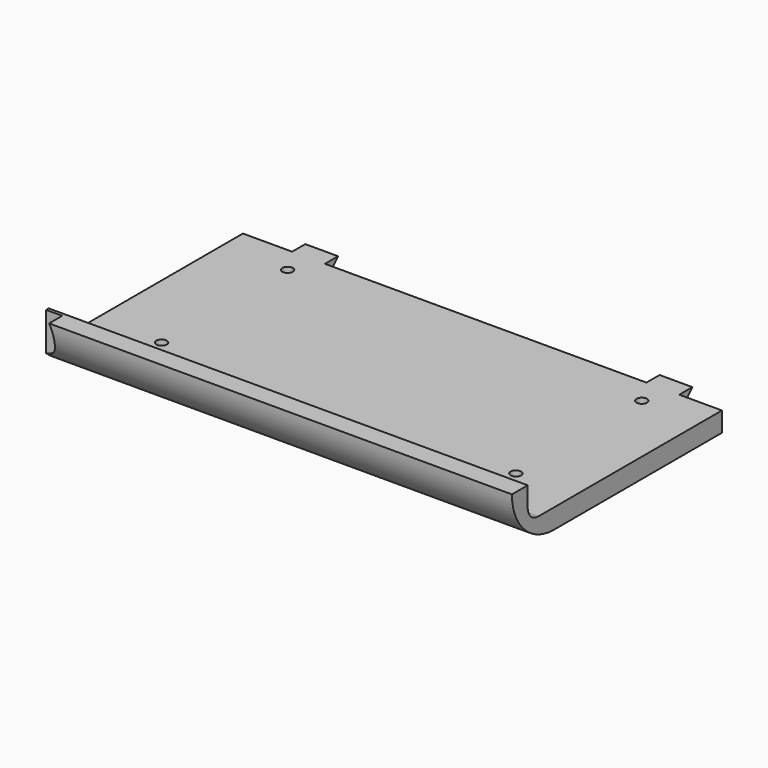
from build123d import *

# Parameters (mm, degrees)
CYLINDER028_R          = 4
CYLINDER028_DEPTH      = 2.5
CYLINDER028_ROLL_ANGLE = 90
BOX023_W               = 5
BOX023_H               = 2.5
BOX023_DEPTH           = 2.5
CHAMFER003_SIZE        = 2.49
BOX021_W               = 5
BOX021_H               = 2.5
BOX021_DEPTH           = 2.5
CHAMFER001_SIZE        = 2.49
CYLINDER014_R          = 0.8
CYLINDER014_DEPTH      = 28
CYLINDER015_R          = 0.8
CYLINDER015_DEPTH      = 28
CYLINDER009_R          = 0.8
CYLINDER009_DEPTH      = 28
CYLINDER008_R          = 0.8
CYLINDER008_DEPTH      = 28
BOX012_W               = 73
BOX012_H               = 37
BOX012_DEPTH           = 3
BOX011_W               = 73
BOX011_H               = 3
BOX011_DEPTH           = 8
FILLET004_R            = 7.99
FILLET005_R            = 2


with BuildPart() as cylinder028:
    # Cylinder028 → Cylinder028 (new body)
    with BuildSketch(Plane.XY):
        Circle(CYLINDER028_R)
    extrude(amount=CYLINDER028_DEPTH)


with BuildPart() as cylinder028_1:
    # Cylinder028 roll: moved
    add(cylinder028.part.rotate(Axis((0, 0, 0), (1, 0, 0)), CYLINDER028_ROLL_ANGLE))


with BuildPart() as cylinder028_2:
    # Cylinder028 placement: moved
    add(cylinder028_1.part.moved(Location((63, 84.5, -17))))


with BuildPart() as chamfer003:
    # Box023 → Box023 (new body)
    with BuildSketch(Plane(origin=(70.5, 113, -22.5), x_dir=(1, 0, 0), z_dir=(0, 0, 1))):
        with Locations((2.5, 1.25)):
            Rectangle(BOX023_W, BOX023_H)
    extrude(amount=BOX023_DEPTH)

    # Chamfer003
    chamfer003_edges = [chamfer003.edges().sort_by_distance(p)[0] for p in [
        (73, 115.5, -22.5),
    ]]
    chamfer(chamfer003_edges, length=CHAMFER003_SIZE)


with BuildPart() as chamfer003_1:
    # Chamfer003 placement: moved
    add(chamfer003.part.moved(Location((55, 9, 0))))


with BuildPart() as fusion016:
    # Box021 → Box021 (new body)
    with BuildSketch(Plane(origin=(70.5, 113, -22.5), x_dir=(1, 0, 0), z_dir=(0, 0, 1))):
        with Locations((2.5, 1.25)):
            Rectangle(BOX021_W, BOX021_H)
    extrude(amount=BOX021_DEPTH)

    # Chamfer001
    chamfer001_edges = [fusion016.edges().sort_by_distance(p)[0] for p in [
        (73, 115.5, -22.5),
    ]]
    chamfer(chamfer001_edges, length=CHAMFER001_SIZE)


with BuildPart() as fusion016_1:
    # Chamfer001 placement: moved
    add(fusion016.part.moved(Location((1, 9, 0))))

    # Fusion016: union Chamfer003
    add(chamfer003_1.part)


with BuildPart() as cylinder014:
    # Cylinder014 → Cylinder014 (new body)
    with BuildSketch(Plane(origin=(74, 118, -26), x_dir=(1, 0, 0), z_dir=(0, 0, 1))):
        Circle(CYLINDER014_R)
    extrude(amount=CYLINDER014_DEPTH)


with BuildPart() as fusion011:
    # Cylinder015 → Cylinder015 (new body)
    with BuildSketch(Plane(origin=(74, 94, -26), x_dir=(1, 0, 0), z_dir=(0, 0, 1))):
        Circle(CYLINDER015_R)
    extrude(amount=CYLINDER015_DEPTH)

    # Fusion011: union Cylinder014
    add(cylinder014.part)


with BuildPart() as fusion011_1:
    # Fusion011 placement: moved
    add(fusion011.part.moved(Location((54, 0, 0))))


with BuildPart() as cylinder009:
    # Cylinder009 → Cylinder009 (new body)
    with BuildSketch(Plane(origin=(74, 118, -26), x_dir=(1, 0, 0), z_dir=(0, 0, 1))):
        Circle(CYLINDER009_R)
    extrude(amount=CYLINDER009_DEPTH)


with BuildPart() as fusion012:
    # Cylinder008 → Cylinder008 (new body)
    with BuildSketch(Plane(origin=(74, 94, -26), x_dir=(1, 0, 0), z_dir=(0, 0, 1))):
        Circle(CYLINDER008_R)
    extrude(amount=CYLINDER008_DEPTH)

    # Fusion010: union Cylinder009
    add(cylinder009.part)

    # Fusion012: union Fusion011
    add(fusion011_1.part)


with BuildPart() as box012:
    # Box012 → Box012 (new body)
    with BuildSketch(Plane(origin=(64, 85, -23), x_dir=(1, 0, 0), z_dir=(0, 0, 1))):
        with Locations((36.5, 18.5)):
            Rectangle(BOX012_W, BOX012_H)
    extrude(amount=BOX012_DEPTH)


with BuildPart() as cut026:
    # Box011 → Box011 (new body)
    with BuildSketch(Plane(origin=(64, 82, -23), x_dir=(1, 0, 0), z_dir=(0, 0, 1))):
        with Locations((36.5, 1.5)):
            Rectangle(BOX011_W, BOX011_H)
    extrude(amount=BOX011_DEPTH)

    # Fusion001: union Box012
    add(box012.part)

    # Fillet004
    fillet004_edges = [cut026.edges().sort_by_distance(p)[0] for p in [
        (100.5, 82, -23),
    ]]
    fillet(fillet004_edges, radius=FILLET004_R)

    # Fillet005
    fillet005_edges = [cut026.edges().sort_by_distance(p)[0] for p in [
        (100.5, 85, -20),
    ]]
    fillet(fillet005_edges, radius=FILLET005_R)

    # Cut013: cut Fusion012
    add(fusion012.part, mode=Mode.SUBTRACT)

    # Fusion017: union Fusion016
    add(fusion016_1.part)

    # Cut026: cut Cylinder028
    add(cylinder028_2.part, mode=Mode.SUBTRACT)


solid = cut026.part
